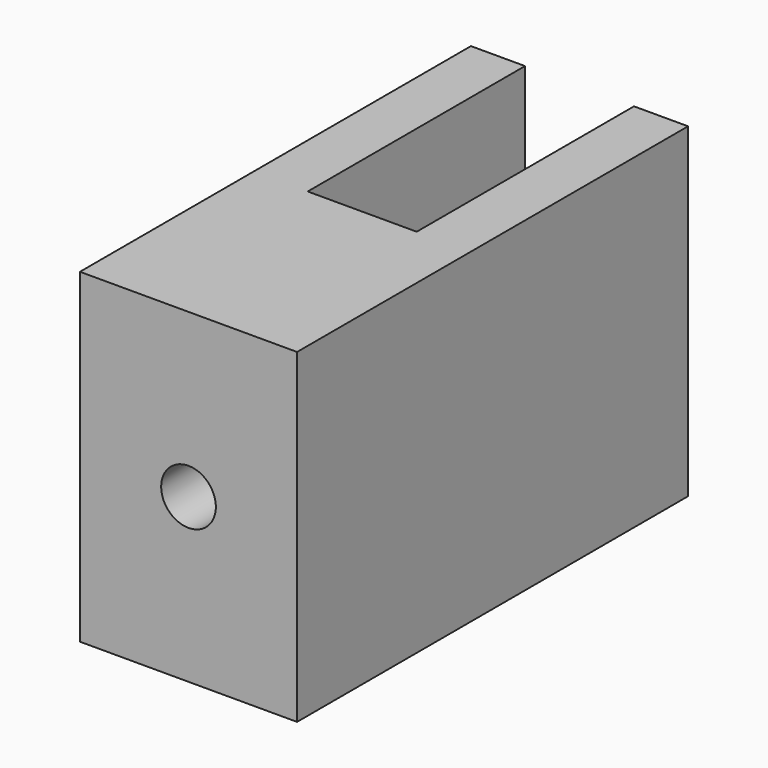
from build123d import *

# Parameters (mm, degrees)
F0_W      = 25.4
F0_H      = 38.1
F1_DEPTH  = 19.05
F2_T      = -6.325
F1_FACE_W = 25.4
F1_FACE_H = 38.1
F3_DEPTH  = 19.075
F5_D      = 6.4
F5_DEPTH  = 50


with BuildPart() as f1:
    # F0 (on Top) → F1 (new body, symmetric)
    with BuildSketch(Plane.XY):
        Rectangle(F0_W, F0_H)
    extrude(amount=F1_DEPTH, both=True)

    # F2
    f2_openings = [f1.faces().sort_by_distance(p)[0] for p in [
        (0, 19.05, 0),
        (0, 0, 19.05),
        (0, 0, -19.05),
    ]]
    offset(amount=F2_T, openings=f2_openings)

    # F1_face (on face) → F3 (join)
    with BuildSketch(Plane.XZ.offset(19.05)):
        Rectangle(F1_FACE_W, F1_FACE_H)
    extrude(amount=F3_DEPTH)

    # F5
    with Locations(Plane.XZ.offset(38.125)):
        with Locations((0, 0)):
            Hole(F5_D / 2, depth=F5_DEPTH)


solid = f1.part
